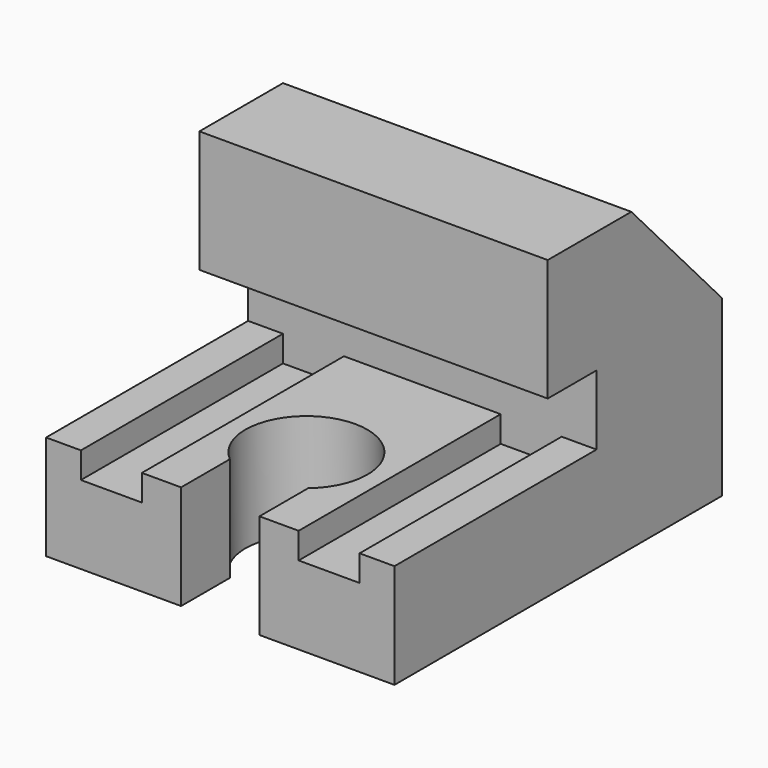
from build123d import *

# Parameters (mm, degrees)
PAD_DEPTH         = 20
POCKET_DEPTH      = 6.001
POCKET_DEPTH_BACK = -28.001


with BuildPart() as part:
    # AdditivePipe: sweep along a path in Sketch
    with BuildLine(Plane.XY) as additivepipe_path:
        Line((0, 0), (0, 47))
    # Sketch001 → AdditivePipe (sweep)
    with BuildSketch(Plane.XZ):
        Polygon((-20, 6), (-20, -6), (-16, -6), (-9, -6), (9, -6), (16, -6), (20, -6), (20, 6), (16, 6), (16, 3), (9, 3), (9, 6), (-9, 6), (-9, 3), (-16, 3), (-16, 6), align=None)
    sweep(path=additivepipe_path.line)

    # Sketch002 → Pad (new body, symmetric)
    with BuildSketch(Plane.YZ):
        Polygon((47, 3), (47, 14), (34, 28), (22, 28), (22, 14), (29, 14), (29, 3), align=None)
    extrude(amount=PAD_DEPTH, both=True)

    # Sketch003 → Pocket (cut, two sides)
    with BuildSketch(Plane.XY) as pocket_sk:
        with BuildLine():
            Line((-4.5, 0), (4.5, 0))
            Line((4.5, 0), (4.5, 7))
            ThreePointArc((4.5, 7), (0, 19.361903), (-4.5, 7))
            Line((-4.5, 0), (-4.5, 7))
        make_face()
    extrude(amount=-POCKET_DEPTH, mode=Mode.SUBTRACT)
    extrude(pocket_sk.sketch, amount=-POCKET_DEPTH_BACK, mode=Mode.SUBTRACT)


solid = part.part
